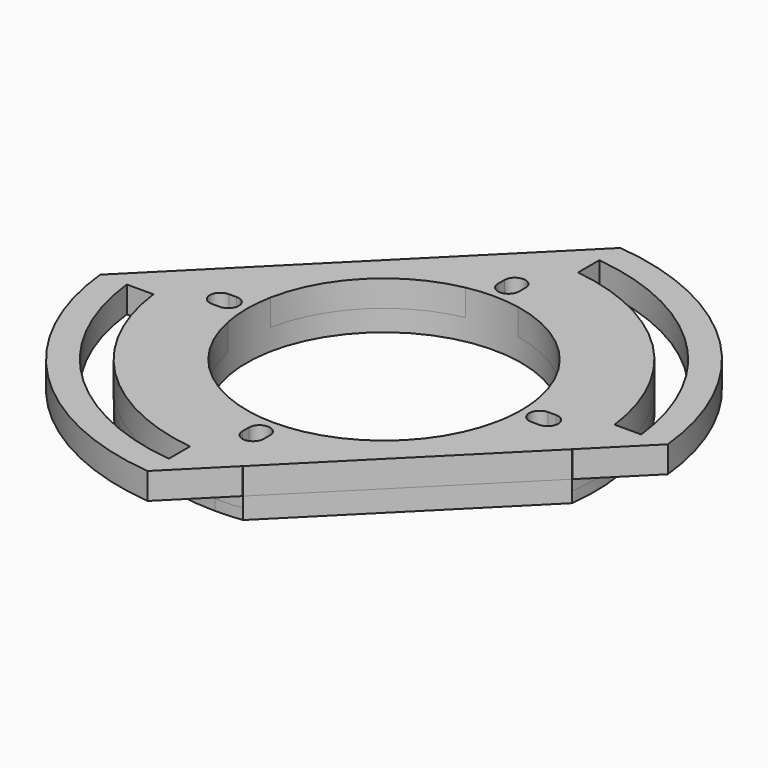
from build123d import *

# Parameters (mm, degrees)
SKETCH_R               = 40
PAD_DEPTH              = 2
SKETCH001_R            = 26
POCKET_DEPTH           = 5
POCKET001_DEPTH        = 5
POLARPATTERN_COUNT     = 4
POLARPATTERN_FACE2_R   = 40
POLARPATTERN_FACE2_R_2 = 26
PAD001_DEPTH           = 2
SKETCH003_W            = 10
SKETCH003_H            = 26
PAD002_DEPTH           = 5
POLARPATTERN001_COUNT  = 4
POCKET002_DEPTH        = 294.061547
POLARPATTERN002_COUNT  = 4
SKETCH005_R            = 26
POCKET003_DEPTH        = 9.001
SKETCH006_R            = 50
SKETCH006_R_2          = 45
PAD003_DEPTH           = 5
SKETCH007_R            = 86.673215
SKETCH007_R_2          = 50
POCKET004_DEPTH        = 9.001
POCKET005_DEPTH        = 292.41589
POLARPATTERN003_COUNT  = 2
PAD004_DEPTH           = 5
PAD005_DEPTH           = 5
PAD006_DEPTH           = 5
PAD007_DEPTH           = 5


with BuildPart() as part:
    # Sketch → Pad (new body)
    with BuildSketch(Plane.XY):
        Circle(SKETCH_R)
    extrude(amount=PAD_DEPTH)

    # Sketch001 (on Face3 of Pad) → Pocket (cut)
    with BuildSketch(Plane.XY.offset(2)):
        Circle(SKETCH001_R)
    extrude(amount=-POCKET_DEPTH, mode=Mode.SUBTRACT)

    # Sketch002 (on Face2 of Pocket) → Pocket001 (cut)
    with BuildSketch(Plane(origin=(0, 0, 0), x_dir=(1, 0, 0), z_dir=(0, 0, -1))):
        with BuildLine():
            ThreePointArc((2, 30.999981), (1.9e-05, 33), (-2, 31.000019))
            Line((-2, 31.000019), (-2.000014, 29.500019))
            ThreePointArc((-2.000014, 29.500019), (-3.4e-05, 27.5), (1.999986, 29.499981))
            Line((1.999986, 29.499981), (2, 30.999981))
        make_face()
    pocket001 = extrude(amount=-POCKET001_DEPTH, mode=Mode.SUBTRACT)

    # PolarPattern: Pocket001 ×4 about axis
    polarpattern_axis = Axis((0, 0, 0), (0, 0, -1))
    for i in range(1, POLARPATTERN_COUNT):
        add(pocket001.rotate(polarpattern_axis, i * 360 / POLARPATTERN_COUNT), mode=Mode.SUBTRACT)

    # PolarPattern Face2 → Pad001 (add)
    with BuildSketch(Plane(origin=(0, 0, 0), x_dir=(0, -1, 0), z_dir=(0, 0, -1))):
        Circle(POLARPATTERN_FACE2_R)
        with BuildLine():
            Line((30.999981, -2), (29.499981, -1.999986))
            ThreePointArc((29.499981, -1.999986), (27.5, 3.4e-05), (29.500019, 2.000014))
            Line((29.500019, 2.000014), (31.000019, 2))
            ThreePointArc((31.000019, 2), (33, -1.9e-05), (30.999981, -2))
        make_face(mode=Mode.SUBTRACT)
        with BuildLine():
            Line((-2, -30.999981), (-1.999986, -29.499981))
            ThreePointArc((-1.999986, -29.499981), (3.4e-05, -27.5), (2.000014, -29.500019))
            Line((2.000014, -29.500019), (2, -31.000019))
            ThreePointArc((2, -31.000019), (-1.9e-05, -33), (-2, -30.999981))
        make_face(mode=Mode.SUBTRACT)
        with BuildLine():
            Line((2, 30.999981), (1.999986, 29.499981))
            ThreePointArc((1.999986, 29.499981), (-3.4e-05, 27.5), (-2.000014, 29.500019))
            Line((-2.000014, 29.500019), (-2, 31.000019))
            ThreePointArc((-2, 31.000019), (1.9e-05, 33), (2, 30.999981))
        make_face(mode=Mode.SUBTRACT)
        Circle(POLARPATTERN_FACE2_R_2, mode=Mode.SUBTRACT)
        with BuildLine():
            Line((-30.999981, 2), (-29.499981, 1.999986))
            ThreePointArc((-29.499981, 1.999986), (-27.5, -3.4e-05), (-29.500019, -2.000014))
            Line((-29.500019, -2.000014), (-31.000019, -2))
            ThreePointArc((-31.000019, -2), (-33, 1.9e-05), (-30.999981, 2))
        make_face(mode=Mode.SUBTRACT)
    extrude(amount=PAD001_DEPTH)

    # Sketch003 (on Face3 of Pad001) → Pad002 (join)
    with BuildSketch(Plane.XY.offset(2)):
        with Locations((0, 38)):
            Rectangle(SKETCH003_W, SKETCH003_H)
    pad002 = extrude(amount=PAD002_DEPTH)

    # PolarPattern001: Pad002 ×4 about axis
    polarpattern001_axis = Axis((0, 0, 2), (0, 0, 1))
    for i in range(1, POLARPATTERN001_COUNT):
        add(pad002.rotate(polarpattern001_axis, i * 360 / POLARPATTERN001_COUNT))

    # Sketch004 (on Face71 of PolarPattern001) → Pocket002 (cut, through all)
    with BuildSketch(Plane(origin=(0, 0, 2), x_dir=(1, 0, 0), z_dir=(0, 0, -1))):
        with BuildLine():
            ThreePointArc((-2, -31), (0, -33), (2, -31))
            Line((2, -31), (2, -29.5))
            ThreePointArc((2, -29.5), (0, -27.5), (-2, -29.5))
            Line((-2, -29.5), (-2, -31))
        make_face()
    pocket002 = extrude(amount=-POCKET002_DEPTH, mode=Mode.SUBTRACT)

    # PolarPattern002: Pocket002 ×4 about axis
    polarpattern002_axis = Axis((0, 0, 2), (0, 0, -1))
    for i in range(1, POLARPATTERN002_COUNT):
        add(pocket002.rotate(polarpattern002_axis, i * 360 / POLARPATTERN002_COUNT), mode=Mode.SUBTRACT)

    # Sketch005 (on Face35 of PolarPattern002) → Pocket003 (cut, through all)
    with BuildSketch(Plane.XY.offset(7)):
        Circle(SKETCH005_R)
    extrude(amount=-POCKET003_DEPTH, mode=Mode.SUBTRACT)

    # Sketch006 (on Face33 of Pocket003) → Pad003 (join)
    with BuildSketch(Plane.XY.offset(7)):
        Circle(SKETCH006_R)
        Circle(SKETCH006_R_2, mode=Mode.SUBTRACT)
    extrude(amount=-PAD003_DEPTH)

    # Sketch007 (on Face90 of Pad003) → Pocket004 (cut, through all)
    with BuildSketch(Plane.XY.offset(7)):
        Circle(SKETCH007_R)
        Circle(SKETCH007_R_2, mode=Mode.SUBTRACT)
    extrude(amount=-POCKET004_DEPTH, mode=Mode.SUBTRACT)

    # Sketch008 (on Face85 of Pocket004) → Pocket005 (cut, through all)
    with BuildSketch(Plane.XY.offset(7)):
        Polygon((-49.748945, -5.004247), (4.99553, 49.749821), (0, 75.641434), (-75.943077, 0), align=None)
    pocket005 = extrude(amount=-POCKET005_DEPTH, mode=Mode.SUBTRACT)

    # PolarPattern003: Pocket005 ×2 about axis
    polarpattern003_axis = Axis((0, 0, 7), (0, 0, 1))
    for i in range(1, POLARPATTERN003_COUNT):
        add(pocket005.rotate(polarpattern003_axis, i * 360 / POLARPATTERN003_COUNT), mode=Mode.SUBTRACT)

    # PolarPattern003 Face4 → Pad004 (add)
    with BuildSketch(Plane(origin=(-19.860277, 19.864229, 2), x_dir=(0, 1, 0), z_dir=(0, 0, 1))):
        with BuildLine():
            Line((5.650473, -14.860277), (19.822041, -14.860277))
            ThreePointArc((19.822041, -14.860277), (19.817242, -14.822329), (19.812406, -14.784385))
            Line((19.812406, -14.784385), (-14.795289, 19.817246))
            ThreePointArc((-14.795289, 19.817246), (-14.829757, 19.821635), (-14.864229, 19.825993))
            Line((-14.864229, 19.825993), (-14.864229, 5.654425))
            ThreePointArc((-14.864229, 5.654425), (-1.479452, -1.475501), (5.650473, -14.860277))
        make_face()
    extrude(amount=PAD004_DEPTH)

    # Pad004 Face44 → Pad005 (add)
    with BuildSketch(Plane(origin=(-22.197408, -22.197408, 2), x_dir=(0, 1, 0), z_dir=(0, 0, 1))):
        with BuildLine():
            Line((17.197408, 3.317294), (17.197408, 17.488862))
            ThreePointArc((17.197408, 17.488862), (-6.086863, 6.086863), (-17.488862, -17.197408))
            Line((-17.488862, -17.197408), (-3.317294, -17.197408))
            ThreePointArc((-3.317294, -17.197408), (3.812632, -3.812632), (17.197408, 3.317294))
        make_face()
    extrude(amount=PAD005_DEPTH)

    # Pad005 Face6 → Pad006 (add)
    with BuildSketch(Plane(origin=(22.197408, 22.197408, 2), x_dir=(0, 1, 0), z_dir=(0, 0, 1))):
        with BuildLine():
            Line((-17.197408, -3.317294), (-17.197408, -17.488862))
            ThreePointArc((-17.197408, -17.488862), (6.086863, -6.086863), (17.488862, 17.197408))
            Line((17.488862, 17.197408), (3.317294, 17.197408))
            ThreePointArc((3.317294, 17.197408), (-3.812632, 3.812632), (-17.197408, -3.317294))
        make_face()
    extrude(amount=PAD006_DEPTH)

    # Pad006 Face24 → Pad007 (add)
    with BuildSketch(Plane(origin=(19.860277, -19.864229, 2), x_dir=(0, 1, 0), z_dir=(0, 0, 1))):
        with BuildLine():
            Line((-5.650473, 14.860277), (-19.822041, 14.860277))
            ThreePointArc((-19.822041, 14.860277), (-19.817242, 14.822329), (-19.812406, 14.784385))
            Line((-19.812406, 14.784385), (14.795289, -19.817246))
            ThreePointArc((14.795289, -19.817246), (14.829757, -19.821635), (14.864229, -19.825993))
            Line((14.864229, -19.825993), (14.864229, -5.654425))
            ThreePointArc((14.864229, -5.654425), (1.479452, 1.475501), (-5.650473, 14.860277))
        make_face()
    extrude(amount=PAD007_DEPTH)


solid = part.part
